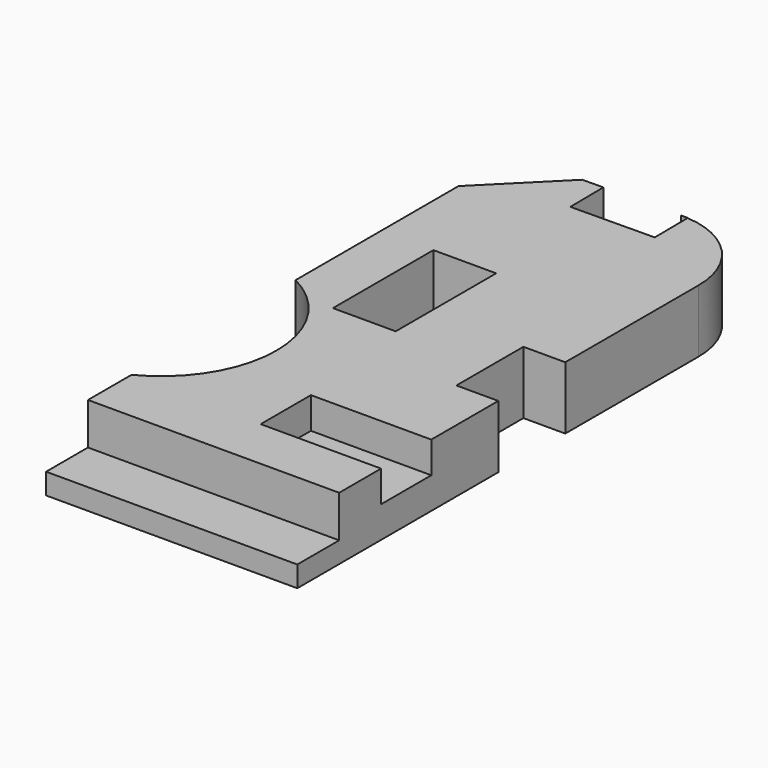
from build123d import *

# Parameters (mm, degrees)
F1_DEPTH = 19.05
F2_W     = 76.2
F2_H     = 12.7
F3_DEPTH = 15.875
F5_DEPTH = 25.4
F6_W     = 36.5125
F6_H     = 19.05
F7_DEPTH = 9.525
F8_W     = 12.7
F8_H     = 25.4
F9_DEPTH = 25.4


with BuildPart() as f1:
    # F0 (on Top) → F1 (new body)
    with BuildSketch(Plane.XY):
        with BuildLine():
            Line((-21.616828, 130.587465), (-42.473463, 109.73083))
            Line((-42.473463, 109.73083), (-42.473463, -46.631057))
            Line((-42.473463, -46.631057), (33.726537, -46.631057))
            Line((33.726537, -46.631057), (33.726537, 105.50067))
            ThreePointArc((33.726537, 105.50067), (26.914525, 122.810976), (10.132309, 130.836399))
            Line((10.132309, 130.836399), (10.264848, 118.221736))
            Line((10.264848, 118.221736), (-15.13375, 117.95488))
            Line((-15.13375, 117.95488), (-15.267178, 130.654179))
            Line((-15.267178, 130.654179), (-21.616828, 130.587465))
        make_face()
        with BuildLine():
            ThreePointArc((8.059681, 130.899268), (9.096637, 130.888993), (10.132309, 130.836399))
            Line((10.132309, 130.836399), (10.13142, 130.921035))
            Line((10.13142, 130.921035), (8.059681, 130.899268))
        make_face()
    extrude(amount=F1_DEPTH)

    # F2 (on face) → F3 (cut)
    with BuildSketch(Plane.XZ.offset(46.631057)):
        with Locations((-4.373463, 12.7)):
            Rectangle(F2_W, F2_H)
    extrude(amount=-F3_DEPTH, mode=Mode.SUBTRACT)

    # F4 (on face) → F5 (cut)
    with BuildSketch(Plane.XY.offset(19.05)):
        with BuildLine():
            Line((-42.473463, 16.868943), (-42.473463, -14.239577))
            ThreePointArc((-42.473463, -14.239577), (-28.564323, -1.370044), (-23.423463, 16.868943))
            Line((-23.423463, 16.868943), (-42.473463, 16.868943))
        make_face()
        with BuildLine():
            Line((-42.473463, 47.977463), (-42.473463, 16.868943))
            Line((-42.473463, 16.868943), (-23.423463, 16.868943))
            ThreePointArc((-23.423463, 16.868943), (-28.564323, 35.107929), (-42.473463, 47.977463))
        make_face()
    extrude(amount=-F5_DEPTH, mode=Mode.SUBTRACT)

    # F6 (on face) → F7 (cut)
    with BuildSketch(Plane.XY.offset(19.05)):
        with Locations((15.470287, -5.356057)):
            Rectangle(F6_W, F6_H)
    extrude(amount=-F7_DEPTH, mode=Mode.SUBTRACT)

    # F8 (on face) → F9 (cut)
    with BuildSketch(Plane.XY.offset(19.05)):
        Polygon((-26.598463, 50.911564), (-26.598463, 42.268943), (-7.548463, 42.268943), (-7.548463, 80.368943), (-26.598463, 80.368943), align=None)
        with Locations((27.376537, 42.268943)):
            Rectangle(F8_W, F8_H)
    extrude(amount=-F9_DEPTH, mode=Mode.SUBTRACT)


solid = f1.part
